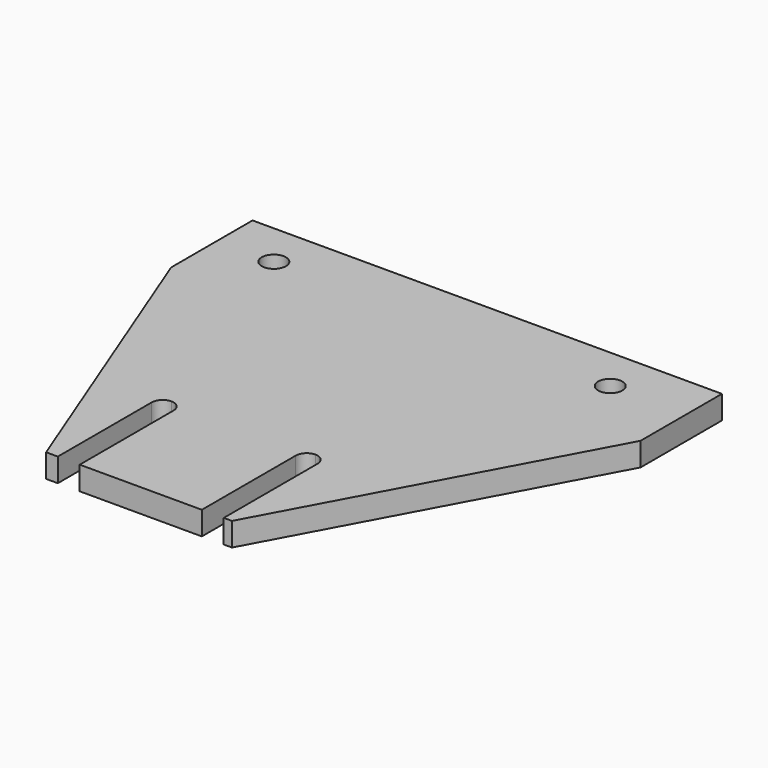
from build123d import *

# Parameters (mm, degrees)
F3_DEPTH = 3
F1_R     = 1.55
F4_DEPTH = 25
F5_DEPTH = 25


with BuildPart() as f3:
    # F0 (on Top) → F3 (new body)
    with BuildSketch(Plane.XY):
        Polygon((21.024429, 52), (-38.975571, 52), (-38.975571, 39), (-23.762762, 0), (0, 0), (21.024429, 39), align=None)
    extrude(amount=F3_DEPTH)

    # F1 (on Top) → F4 (cut)
    with BuildSketch(Plane.XY):
        with Locations((-31.737244, 46.35926)):
            Circle(F1_R)
        with Locations((11.262756, 46.35926)):
            Circle(F1_R)
    extrude(amount=F4_DEPTH, mode=Mode.SUBTRACT)

    # F2 (on face) → F5 (cut)
    with BuildSketch(Plane.XY):
        with BuildLine():
            Line((-3.852762, 15), (-3.852762, 0))
            Line((-3.852762, 0), (-2.452762, 0))
            Line((-2.452762, 0), (-1.052762, 0))
            Line((-1.052762, 0), (-1.052762, 15))
            ThreePointArc((-1.052762, 15), (-1.462812, 15.989949), (-2.452762, 16.4))
            ThreePointArc((-2.452762, 16.4), (-3.442711, 15.989949), (-3.852762, 15))
        make_face()
        with BuildLine():
            Line((-22.262762, 15), (-22.262762, 0))
            Line((-22.262762, 0), (-20.862762, 0))
            Line((-20.862762, 0), (-19.462762, 0))
            Line((-19.462762, 0), (-19.462762, 15))
            ThreePointArc((-19.462762, 15), (-19.872812, 15.989949), (-20.862762, 16.4))
            ThreePointArc((-20.862762, 16.4), (-21.852711, 15.989949), (-22.262762, 15))
        make_face()
    extrude(amount=F5_DEPTH, mode=Mode.SUBTRACT)


solid = f3.part
